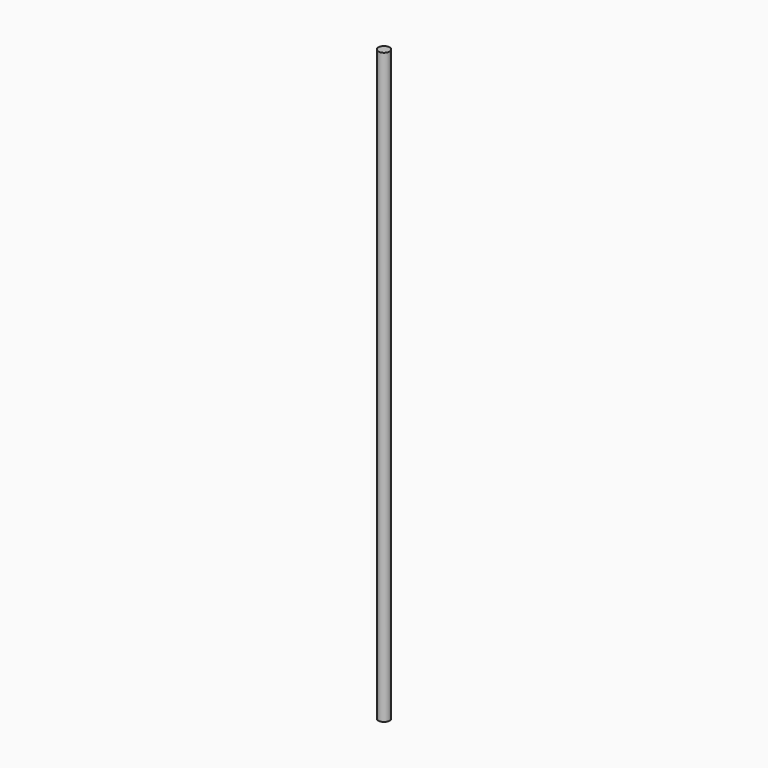
from build123d import *

# Parameters (mm, degrees)
CYLINDER_R     = 3.75
CYLINDER_DEPTH = 390


with BuildPart() as part:
    # Cylinder → Cylinder (new body)
    with BuildSketch(Plane.XY):
        Circle(CYLINDER_R)
    extrude(amount=CYLINDER_DEPTH)


solid = part.part
